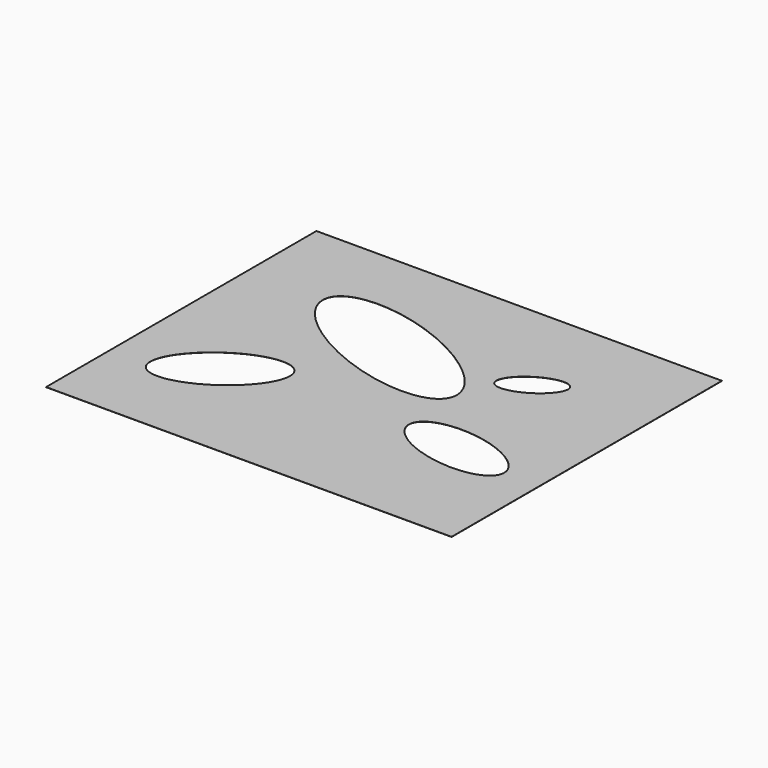
from build123d import *

# Parameters (mm, degrees)
F0_W     = 304.8
F0_H     = 254
F1_DEPTH = 0.127


with BuildPart() as f1:
    # F0 (on Top) → F1 (new body)
    with BuildSketch(Plane.XY):
        Rectangle(F0_W, F0_H)
        with BuildLine():
            add(Edge.make_bspline(
                [(-51.2624718249, -20.0841724873), (-71.8225822111, 9.3853135541), (-115.3163977096, -42.8660904549), (-158.8102132082, -95.1174944639), (-94.7562873234, -72.3355764963), (-30.7023614387, -49.5536585286), (-51.2624718249, -20.0841724873)],
                knots=[0, 0, 0, 2.0943951024, 2.0943951024, 4.1887902048, 4.1887902048, 6.2831853072, 6.2831853072, 6.2831853072], degree=2, weights=[1, 0.5, 1, 0.5, 1, 0.5, 1]))
        make_face(mode=Mode.SUBTRACT)
        with BuildLine():
            add(Edge.make_bspline(
                [(125.4826635122, -45.9289848804), (132.1993751254, -13.017117184), (67.563842134, -16.9674973694), (2.9283091426, -20.9178775549), (60.8471305208, -49.8793650659), (118.765951899, -78.8408525769), (125.4826635122, -45.9289848804)],
                knots=[0, 0, 0, 2.0943951024, 2.0943951024, 4.1887902048, 4.1887902048, 6.2831853072, 6.2831853072, 6.2831853072], degree=2, weights=[1, 0.5, 1, 0.5, 1, 0.5, 1]))
        make_face(mode=Mode.SUBTRACT)
        with BuildLine():
            add(Edge.make_bspline(
                [(-93.7813445926, 65.7872930169), (-113.1540231842, 18.2361770106), (-2.1727053666, 0.743406809), (108.808612451, -16.7493633926), (17.199973225, 48.2945228153), (-74.4086660009, 113.3384090233), (-93.7813445926, 65.7872930169)],
                knots=[0, 0, 0, 2.0943951024, 2.0943951024, 4.1887902048, 4.1887902048, 6.2831853072, 6.2831853072, 6.2831853072], degree=2, weights=[1, 0.5, 1, 0.5, 1, 0.5, 1]))
        make_face(mode=Mode.SUBTRACT)
        with BuildLine():
            add(Edge.make_bspline(
                [(87.9660099745, 64.9535953999), (78.6570670199, 80.2468416351), (54.5487918949, 55.0924400369), (30.4405167699, 29.9380384386), (63.8577348495, 39.7991938016), (97.274952929, 49.6603491646), (87.9660099745, 64.9535953999)],
                knots=[0, 0, 0, 2.0943951024, 2.0943951024, 4.1887902048, 4.1887902048, 6.2831853072, 6.2831853072, 6.2831853072], degree=2, weights=[1, 0.5, 1, 0.5, 1, 0.5, 1]))
        make_face(mode=Mode.SUBTRACT)
    extrude(amount=F1_DEPTH)


solid = f1.part
